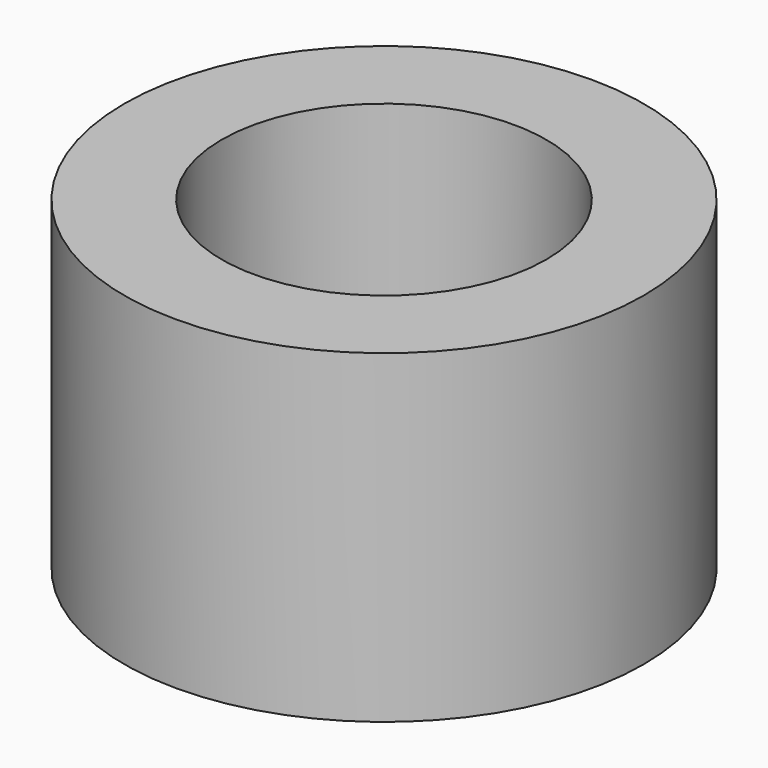
from build123d import *

# Parameters (mm, degrees)
CYLINDER001_R     = 2.5
CYLINDER001_DEPTH = 5
CYLINDER_R        = 4
CYLINDER_DEPTH    = 5


with BuildPart() as zylinder001:
    # Cylinder001 → Cylinder001 (new body)
    with BuildSketch(Plane.XY):
        Circle(CYLINDER001_R)
    extrude(amount=CYLINDER001_DEPTH)


with BuildPart() as sliding_bearing:
    # Cylinder → Cylinder (new body)
    with BuildSketch(Plane.XY):
        Circle(CYLINDER_R)
    extrude(amount=CYLINDER_DEPTH)

    # Cut: cut Zylinder001
    add(zylinder001.part, mode=Mode.SUBTRACT)


solid = sliding_bearing.part
